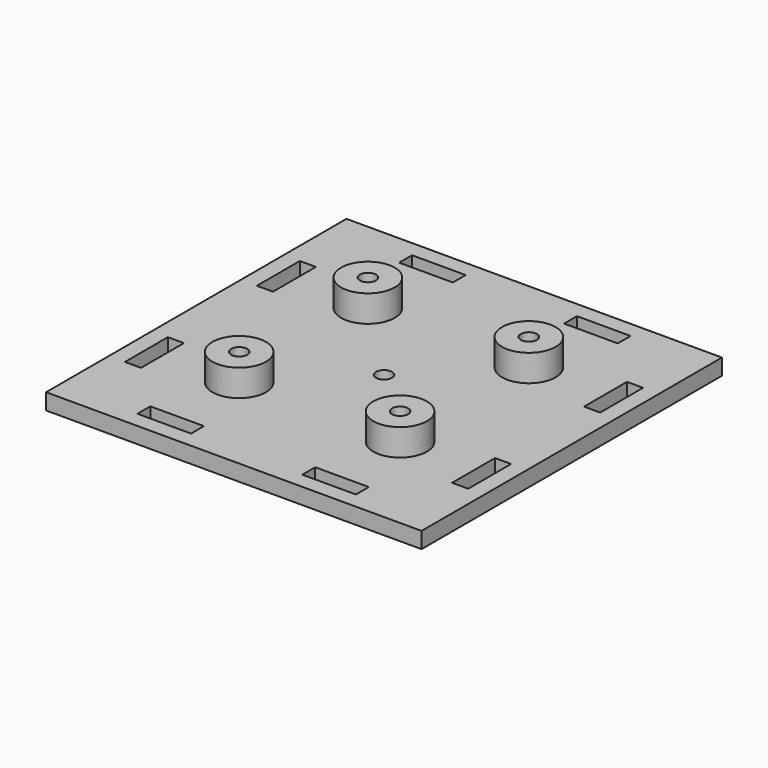
from build123d import *

# Parameters (mm, degrees)
SKETCH_W                 = 70
SKETCH_H                 = 70
EXTRUDE_DEPTH            = 3
SKETCH001_R              = 5
PAD_DEPTH                = 5
POLARPATTERN_COUNT       = 4
SKETCH002_R              = 1.5
POCKET_DEPTH             = 206.636344
POLARPATTERN001_COUNT    = 4
SKETCH003_R              = 3
POCKET001_DEPTH          = 2.5
POLARPATTERN002_COUNT    = 4
SKETCH004_W              = 10
SKETCH004_H              = 3
POCKET002_DEPTH          = 5
POLARPATTERN002002_COUNT = 4
SKETCH005_R              = 1.5
POCKET003_DEPTH          = 8.001


with BuildPart() as part:
    # Sketch → Extrude (new body)
    with BuildSketch(Plane.XY):
        Rectangle(SKETCH_W, SKETCH_H)
    extrude(amount=EXTRUDE_DEPTH)

    # Sketch001 → Pad (new body)
    with BuildSketch(Plane.XY.offset(3)):
        with Locations((-15, 15)):
            Circle(SKETCH001_R)
    pad = extrude(amount=PAD_DEPTH)

    # PolarPattern: Pad ×4 about axis
    polarpattern_axis = Axis((0, 0, 3), (0, 0, 1))
    for i in range(1, POLARPATTERN_COUNT):
        add(pad.rotate(polarpattern_axis, i * 360 / POLARPATTERN_COUNT))

    # Sketch002 → Pocket (cut, through all)
    with BuildSketch(Plane.XY.offset(8)):
        with Locations((-15, 15)):
            Circle(SKETCH002_R)
    pocket = extrude(amount=-POCKET_DEPTH, mode=Mode.SUBTRACT)

    # PolarPattern001: Pocket ×4 about axis
    polarpattern001_axis = Axis((0, 0, 8), (0, 0, 1))
    for i in range(1, POLARPATTERN001_COUNT):
        add(pocket.rotate(polarpattern001_axis, i * 360 / POLARPATTERN001_COUNT), mode=Mode.SUBTRACT)

    # Sketch003 → Pocket001 (cut)
    with BuildSketch(Plane(origin=(0, 0, 0), x_dir=(1, 0, 0), z_dir=(0, 0, -1))):
        with Locations((-15, 15)):
            Circle(SKETCH003_R)
    pocket001 = extrude(amount=-POCKET001_DEPTH, mode=Mode.SUBTRACT)

    # PolarPattern002: Pocket001 ×4 about axis
    polarpattern002_axis = Axis((0, 0, 0), (0, 0, -1))
    for i in range(1, POLARPATTERN002_COUNT):
        add(pocket001.rotate(polarpattern002_axis, i * 360 / POLARPATTERN002_COUNT), mode=Mode.SUBTRACT)

    # Sketch004 → Pocket002 (cut)
    with BuildSketch(Plane(origin=(0, 0, 0), x_dir=(1, 0, 0), z_dir=(0, 0, -1))):
        with Locations((15.374485, 30.5)):
            Rectangle(SKETCH004_W, SKETCH004_H)
        with Locations((-15.374485, 30.5)):
            Rectangle(SKETCH004_W, SKETCH004_H)
    pocket002 = extrude(amount=-POCKET002_DEPTH, mode=Mode.SUBTRACT)

    # PolarPattern002002: Pocket002 ×4 about axis
    polarpattern002002_axis = Axis((0, 0, 0), (0, 0, -1))
    for i in range(1, POLARPATTERN002002_COUNT):
        add(pocket002.rotate(polarpattern002002_axis, i * 360 / POLARPATTERN002002_COUNT), mode=Mode.SUBTRACT)

    # Sketch005 → Pocket003 (cut, through all)
    with BuildSketch(Plane(origin=(0, 0, 0), x_dir=(1, 0, 0), z_dir=(0, 0, -1))):
        Circle(SKETCH005_R)
    extrude(amount=-POCKET003_DEPTH, mode=Mode.SUBTRACT)


solid = part.part
